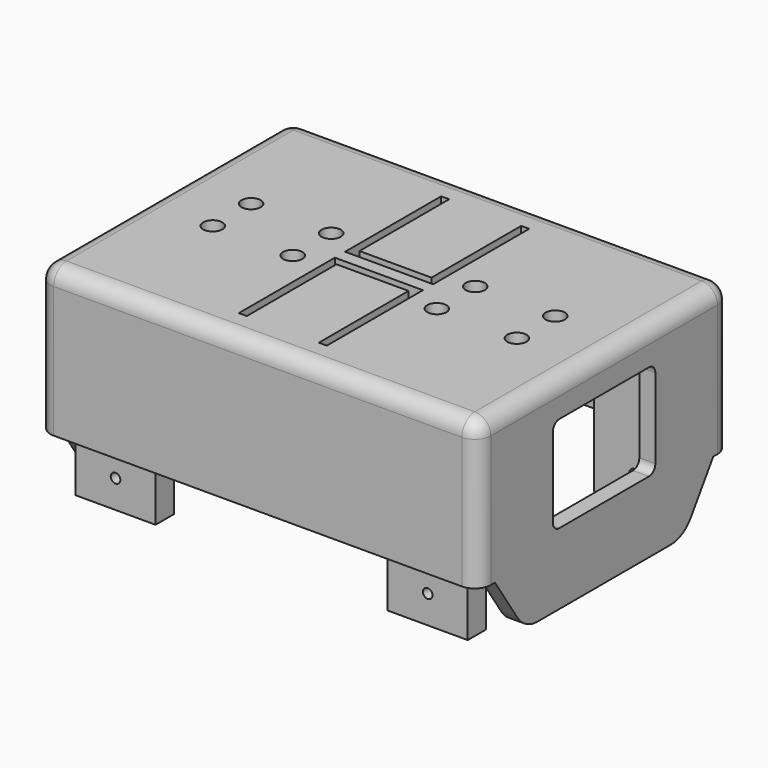
from build123d import *

# Parameters (mm, degrees)
SKETCH004_W                 = 51
SKETCH004_H                 = 35.4
PAD002_DEPTH                = 23.5
THICKNESS001_T              = 2
POCKET002_DEPTH             = 55.001
POCKET003_DEPTH             = 2
POCKET004_DEPTH             = 2
POCKET005_DEPTH             = 2
SKETCH009_W                 = 6
SKETCH009_H                 = 2.4
PAD003_DEPTH                = 0.5
SKETCH010_R                 = 1.2
POCKET006_DEPTH             = 2
SKETCH011_W                 = 10
SKETCH011_H                 = 3
PAD004_DEPTH                = 23.5
SKETCH011_POLARPATTERN_2_W  = 10
SKETCH011_POLARPATTERN_2_H  = 3
PAD004_POLARPATTERN_2_DEPTH = 23.5
SKETCH022_W                 = 10
SKETCH022_H                 = 0.15
POCKET013_DEPTH             = 7.1
SKETCH013_R                 = 1.1
SKETCH013_W                 = 10
SKETCH013_H                 = 3.02
PAD005_DEPTH                = 5
SKETCH014_W                 = 2.2
SKETCH014_H                 = 17.18
SKETCH014_H_2               = 17.78
PAD006_DEPTH                = 2.4
SKETCH019_R                 = 0.6
POCKET010_DEPTH             = 42.301
FILLET001_R                 = 1.85
FILLET002_R                 = 1.5


with BuildPart() as part:
    # Sketch004 → Pad002 (new body)
    with BuildSketch(Plane.XY):
        Rectangle(SKETCH004_W, SKETCH004_H)
    extrude(amount=PAD002_DEPTH)

    # Thickness001
    thickness001_openings = [part.faces().sort_by_distance(p)[0] for p in [
        (0, 0, 0),
    ]]
    offset(amount=THICKNESS001_T, openings=thickness001_openings)

    # Sketch005 (on DatumPlane) → Pocket002 (cut, through all)
    with BuildSketch(Plane.YZ.offset(27.5)):
        with BuildLine():
            Line((17.046003, 7.1), (13.527395, 1.798614))
            ThreePointArc((10.361297, 0.1), (12.157784, 0.551473), (13.527395, 1.798614))
            Line((10.361297, 0.1), (-10.361297, 0.1))
            ThreePointArc((-13.527395, 1.798614), (-12.157784, 0.551473), (-10.361297, 0.1))
            Line((-13.527395, 1.798614), (-17.046003, 7.1))
            Line((-17.046003, 7.1), (-40, 7.1))
            Line((-40, 7.1), (-40, -32.9))
            Line((-40, -32.9), (40, -32.9))
            Line((40, -32.9), (40, 7.1))
            Line((40, 7.1), (17.046003, 7.1))
        make_face()
    extrude(amount=-POCKET002_DEPTH, mode=Mode.SUBTRACT)

    # Sketch006 (on DatumPlane) → Pocket003 (cut)
    with BuildSketch(Plane.YZ.offset(-27.5)):
        with BuildLine():
            ThreePointArc((6.4, 6.5), (6.107107, 7.207107), (5.4, 7.5))
            Line((-5.4, 7.5), (5.4, 7.5))
            ThreePointArc((-5.4, 7.5), (-6.107107, 7.207107), (-6.4, 6.5))
            Line((-6.4, 3.5), (-6.4, 6.5))
            ThreePointArc((-6.4, 3.5), (-6.107107, 2.792893), (-5.4, 2.5))
            Line((5.4, 2.5), (-5.4, 2.5))
            ThreePointArc((5.4, 2.5), (6.107107, 2.792893), (6.4, 3.5))
            Line((6.4, 6.5), (6.4, 3.5))
        make_face()
    extrude(amount=POCKET003_DEPTH, mode=Mode.SUBTRACT)

    # Sketch007 (on DatumPlane) → Pocket004 (cut)
    with BuildSketch(Plane.YZ.offset(27.5)):
        with BuildLine():
            ThreePointArc((-7, 21), (-7.707107, 20.707107), (-8, 20))
            Line((-8, 10), (-8, 20))
            ThreePointArc((-8, 10), (-7.707107, 9.292893), (-7, 9))
            Line((7, 9), (-7, 9))
            ThreePointArc((7, 9), (7.707107, 9.292893), (8, 10))
            Line((8, 20), (8, 10))
            ThreePointArc((8, 20), (7.707107, 20.707107), (7, 21))
            Line((-7, 21), (7, 21))
        make_face()
    extrude(amount=-POCKET004_DEPTH, mode=Mode.SUBTRACT)

    # Sketch008 (on DatumPlane) → Pocket005 (cut)
    with BuildSketch(Plane.XY.offset(25.5)):
        Polygon((-5.5, 15.8), (-4.5, 15.8), (-4.5, 1.8), (4.5, 1.8), (4.5, 15.8), (5.5, 15.8), (5.5, 0.8), (-5.5, 0.8), align=None)
        Polygon((-5.5, -0.8), (5.5, -0.8), (5.5, -15.8), (4.5, -15.8), (4.5, -1.8), (-4.5, -1.8), (-4.5, -15.8), (-5.5, -15.8), align=None)
    extrude(amount=-POCKET005_DEPTH, mode=Mode.SUBTRACT)

    # Sketch009 (on Face4 of Pocket005) → Pad003 (join)
    with BuildSketch(Plane(origin=(0, 0, 23.5), x_dir=(1, 0, 0), z_dir=(0, 0, -1))):
        with Locations((0, -3)):
            Rectangle(SKETCH009_W, SKETCH009_H)
        with Locations((0, 3)):
            Rectangle(SKETCH009_W, SKETCH009_H)
    extrude(amount=PAD003_DEPTH)

    # Sketch010 (on DatumPlane) → Pocket006 (cut)
    with BuildSketch(Plane.XY.offset(25.5)):
        with Locations((19, 3)):
            Circle(SKETCH010_R)
        with Locations((9, 3)):
            Circle(SKETCH010_R)
        with Locations((-9, 3)):
            Circle(SKETCH010_R)
        with Locations((-19, 3)):
            Circle(SKETCH010_R)
        with Locations((-19, -3)):
            Circle(SKETCH010_R)
        with Locations((-9, -3)):
            Circle(SKETCH010_R)
        with Locations((9, -3)):
            Circle(SKETCH010_R)
        with Locations((19, -3)):
            Circle(SKETCH010_R)
    extrude(amount=-POCKET006_DEPTH, mode=Mode.SUBTRACT)

    # Sketch011 (on DatumPlane) → Pad004 (join)
    with BuildSketch(Plane.XY.offset(23.5)):
        with Locations((19.5, -16.2)):
            Rectangle(SKETCH011_W, SKETCH011_H)
    pad004 = extrude(amount=-PAD004_DEPTH)

    # Sketch011 PolarPattern 2 → Pad004 PolarPattern 2 (add)
    with BuildSketch(Plane(origin=(0, 0, 23.5), x_dir=(-1, 0, 0), z_dir=(0, 0, 1))):
        with Locations((19.5, -16.2)):
            Rectangle(SKETCH011_POLARPATTERN_2_W, SKETCH011_POLARPATTERN_2_H)
    pad004_polarpattern_2 = extrude(amount=-PAD004_POLARPATTERN_2_DEPTH)

    # Mirrored: Pad004, Pad004 PolarPattern 2 across Sketch011 V_Axis
    add(pad004.mirror(Plane(origin=(0, 0, 23.5), x_dir=(0, 0, 1), z_dir=(1, 0, 0))))
    add(pad004_polarpattern_2.mirror(Plane(origin=(0, 0, 23.5), x_dir=(0, 0, 1), z_dir=(1, 0, 0))))

    # Sketch022 (on DatumPlane) → Pocket013 (cut)
    with BuildSketch(Plane(origin=(0, 0, 0), x_dir=(-1, 0, 0), z_dir=(0, 0, -1))):
        with Locations((19.5, -17.625)):
            Rectangle(SKETCH022_W, SKETCH022_H)
        with Locations((-19.5, -17.625)):
            Rectangle(SKETCH022_W, SKETCH022_H)
        with Locations((19.5, 17.625)):
            Rectangle(SKETCH022_W, SKETCH022_H)
        with Locations((-19.5, 17.625)):
            Rectangle(SKETCH022_W, SKETCH022_H)
    extrude(amount=-POCKET013_DEPTH, mode=Mode.SUBTRACT)

    # Sketch013 (on DatumPlane) → Pad005 (join)
    with BuildSketch(Plane.XY.offset(23.5)):
        with Locations((-22.86, -8.59)):
            Circle(SKETCH013_R)
        with Locations((22.86, -8.89)):
            Circle(SKETCH013_R)
        with Locations((22.86, 8.89)):
            Circle(SKETCH013_R)
        with Locations((-22.86, 8.59)):
            Circle(SKETCH013_R)
        with Locations((-19.5, 13.19)):
            Rectangle(SKETCH013_W, SKETCH013_H)
        with Locations((-19.5, -13.19)):
            Rectangle(SKETCH013_W, SKETCH013_H)
        with Locations((19.5, -13.19)):
            Rectangle(SKETCH013_W, SKETCH013_H)
        with Locations((19.5, 13.19)):
            Rectangle(SKETCH013_W, SKETCH013_H)
    extrude(amount=-PAD005_DEPTH)

    # Sketch014 (on DatumPlane) → Pad006 (join)
    with BuildSketch(Plane.XY.offset(23.5)):
        with Locations((-22.86, 0)):
            Rectangle(SKETCH014_W, SKETCH014_H)
        with Locations((22.86, 0)):
            Rectangle(SKETCH014_W, SKETCH014_H_2)
    extrude(amount=-PAD006_DEPTH)

    # Sketch019 (on DatumPlane) → Pocket010 (cut, through all)
    with BuildSketch(Plane.XZ.offset(22.6)):
        with Locations((-19.5, 3.5)):
            Circle(SKETCH019_R)
        with Locations((19.5, 3.5)):
            Circle(SKETCH019_R)
    extrude(amount=-POCKET010_DEPTH, mode=Mode.SUBTRACT)

    # Fillet001
    fillet001_edges = [part.edges().sort_by_distance(p)[0] for p in [
        (0, -17.7, 23.5),
        (0, 17.7, 23.5),
    ]]
    fillet(fillet001_edges, radius=FILLET001_R)

    # Fillet002
    fillet002_edges = [part.edges().sort_by_distance(p)[0] for p in [
        (-25.5, 0, 23.5),
        (25.5, 0, 23.5),
    ]]
    fillet(fillet002_edges, radius=FILLET002_R)


with BuildPart() as part_1:
    # Body002 placement: moved
    add(part.part.moved(Location((0, 0, 7))))


solid = part_1.part
